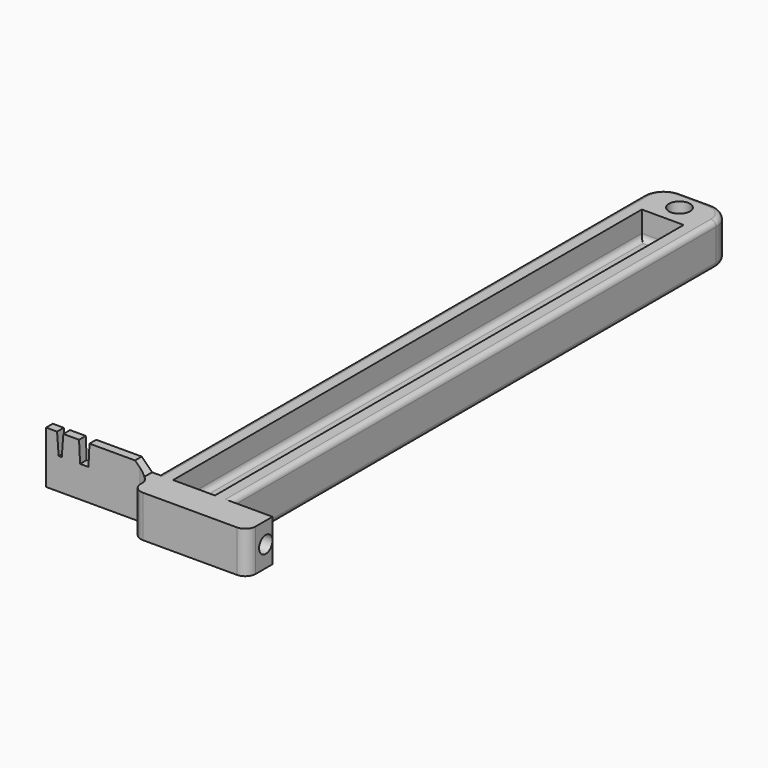
from build123d import *

# Parameters (mm, degrees)
PAD_DEPTH       = 10
SKETCH001_W     = 14
SKETCH001_H     = 120
POCKET_DEPTH    = 2
SKETCH002_W     = 8
SKETCH002_H     = 112
POCKET001_DEPTH = 5
SKETCH003_W     = 23
SKETCH003_H     = 6
POCKET002_DEPTH = 2
SKETCH004_R     = 2
POCKET003_DEPTH = 8.001
FILLET_R        = 1
FILLET001_R     = 4
FILLET002_R     = 1
CHAMFER_SIZE    = 1.99
FILLET003_R     = 2
FILLET004_R     = 2
POCKET004_DEPTH = 6.001
SKETCH006_R     = 1.6
POCKET005_DEPTH = 4.5


with BuildPart() as part:
    # Sketch → Pad (new body)
    with BuildSketch(Plane.XY):
        Polygon((0, 6), (20, 6), (20, 126), (34, 126), (34, 6), (42, 6), (42, 0), (20, 0), (20, 4.4), (0, 4.4), align=None)
    extrude(amount=PAD_DEPTH)

    # Sketch001 (on DatumPlane) → Pocket (cut)
    with BuildSketch(Plane.XY.offset(10)):
        with Locations((27, 66)):
            Rectangle(SKETCH001_W, SKETCH001_H)
    extrude(amount=-POCKET_DEPTH, mode=Mode.SUBTRACT)

    # Sketch002 (on DatumPlane) → Pocket001 (cut)
    with BuildSketch(Plane.XY.offset(8)):
        with Locations((27, 62)):
            Rectangle(SKETCH002_W, SKETCH002_H)
    extrude(amount=-POCKET001_DEPTH, mode=Mode.SUBTRACT)

    # Sketch003 (on DatumPlane) → Pocket002 (cut)
    with BuildSketch(Plane.XY.offset(10)):
        with Locations((30.5, 3)):
            Rectangle(SKETCH003_W, SKETCH003_H)
    extrude(amount=-POCKET002_DEPTH, mode=Mode.SUBTRACT)

    # Sketch004 (on DatumPlane) → Pocket003 (cut, through all)
    with BuildSketch(Plane.XY.offset(8)):
        with Locations((27, 122)):
            Circle(SKETCH004_R)
    extrude(amount=-POCKET003_DEPTH, mode=Mode.SUBTRACT)

    # Fillet
    fillet_edges = [part.edges().sort_by_distance(p)[0] for p in [
        (27, 118, 3),
        (31, 62, 3),
        (27, 6, 3),
        (23, 62, 3),
    ]]
    fillet(fillet_edges, radius=FILLET_R)

    # Fillet001
    fillet001_edges = [part.edges().sort_by_distance(p)[0] for p in [
        (20, 126, 4),
        (34, 126, 4),
    ]]
    fillet(fillet001_edges, radius=FILLET001_R)

    # Fillet002
    fillet002_edges = [part.edges().sort_by_distance(p)[0] for p in [
        (20, 64, 8),
        (34, 64, 8),
        (34, 64, 0),
        (20, 64, 0),
    ]]
    fillet(fillet002_edges, radius=FILLET002_R)

    # Chamfer
    chamfer_edges = [part.edges().sort_by_distance(p)[0] for p in [
        (19, 5.2, 10),
    ]]
    chamfer(chamfer_edges, length=CHAMFER_SIZE)

    # Fillet003
    fillet003_edges = [part.edges().sort_by_distance(p)[0] for p in [
        (20, 0, 4),
        (42, 0, 4),
    ]]
    fillet(fillet003_edges, radius=FILLET003_R)

    # Fillet004
    fillet004_edges = [part.edges().sort_by_distance(p)[0] for p in [
        (20, 4.4, 4),
    ]]
    fillet(fillet004_edges, radius=FILLET004_R)

    # Sketch005 (on DatumPlane) → Pocket004 (cut, through all)
    with BuildSketch(Plane(origin=(0, 6, 0), x_dir=(-1, 0, 0), z_dir=(0, 1, 0))):
        Polygon((-3.3, 10), (-2.1, 10), (-2.4, 6), (-3, 6), align=None)
        Polygon((-8.3, 10), (-6.3, 10), (-6.5, 6), (-8.1, 6), align=None)
    extrude(amount=-POCKET004_DEPTH, mode=Mode.SUBTRACT)

    # Sketch006 (on DatumPlane) → Pocket005 (cut)
    with BuildSketch(Plane.YZ.offset(42)):
        with Locations((4.4, 4)):
            Circle(SKETCH006_R)
    extrude(amount=-POCKET005_DEPTH, mode=Mode.SUBTRACT)


solid = part.part
